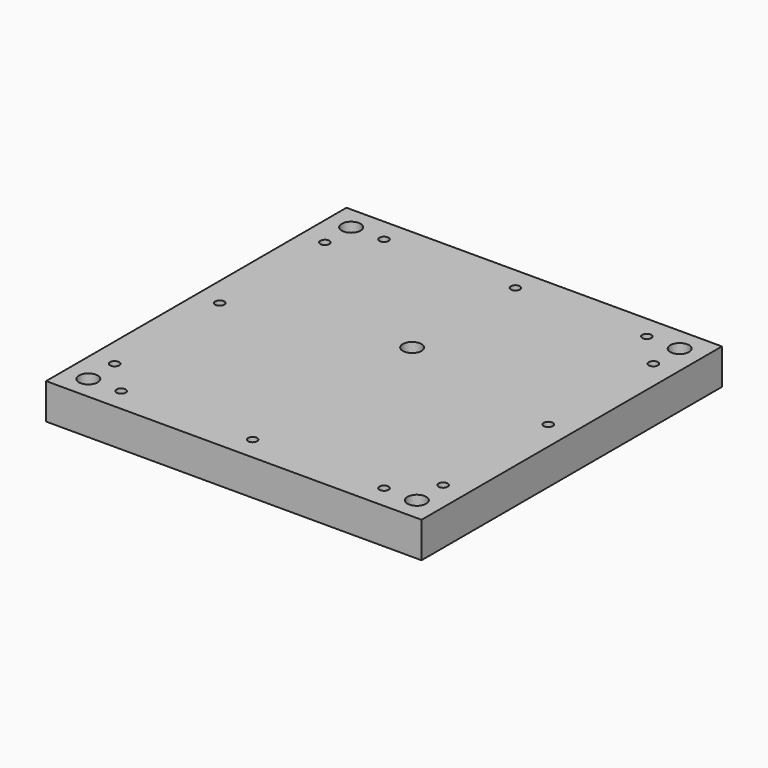
from build123d import *

# Parameters (mm, degrees)
F0_W     = 203.2
F0_H     = 203.2
F0_R     = 3.175
F1_DEPTH = 19.304
F2_R     = 5.08
F4_DEPTH = 14.224
F5_D     = 4.9
F5_DEPTH = 12
F5_TIP   = 1.4721085166


with BuildPart() as f1:
    # F0 (on Top) → F1 (new body)
    with BuildSketch(Plane.XY):
        Rectangle(F0_W, F0_H)
        with Locations((-88.9, -88.9)):
            Circle(F0_R, mode=Mode.SUBTRACT)
        with Locations((88.9, -88.9)):
            Circle(F0_R, mode=Mode.SUBTRACT)
        with Locations((0, 19.05)):
            Circle(F0_R, mode=Mode.SUBTRACT)
        with Locations((-88.9, 88.9)):
            Circle(F0_R, mode=Mode.SUBTRACT)
        with Locations((88.9, 88.9)):
            Circle(F0_R, mode=Mode.SUBTRACT)
    extrude(amount=F1_DEPTH)

    # F2 (on face) → F4 (cut, through all)
    with BuildSketch(Plane.XY.offset(19.304)):
        with Locations((-88.9, 88.9)):
            Circle(F2_R)
        with Locations((0, 19.05)):
            Circle(F2_R)
        with Locations((88.9, 88.9)):
            Circle(F2_R)
        with Locations((-88.9, -88.9)):
            Circle(F2_R)
        with Locations((88.9, -88.9)):
            Circle(F2_R)
    extrude(amount=-F4_DEPTH, mode=Mode.SUBTRACT)

    # F5
    with Locations(Plane.XY.offset(19.304)):
        with Locations((0, -88.9), (88.9, 0), (0, 88.9), (-88.9, 0), (-88.9, -71.12), (-71.12, -88.9), (-88.9, 71.12), (-71.12, 88.9), (71.12, 88.9), (88.9, 71.12), (88.9, -71.12), (71.12, -88.9)):
            Hole(F5_D / 2, depth=F5_DEPTH)
            with Locations((0, 0, -(F5_DEPTH + F5_TIP / 2))):  # 118° drill point
                Cone(0, F5_D / 2, F5_TIP, mode=Mode.SUBTRACT)


solid = f1.part
